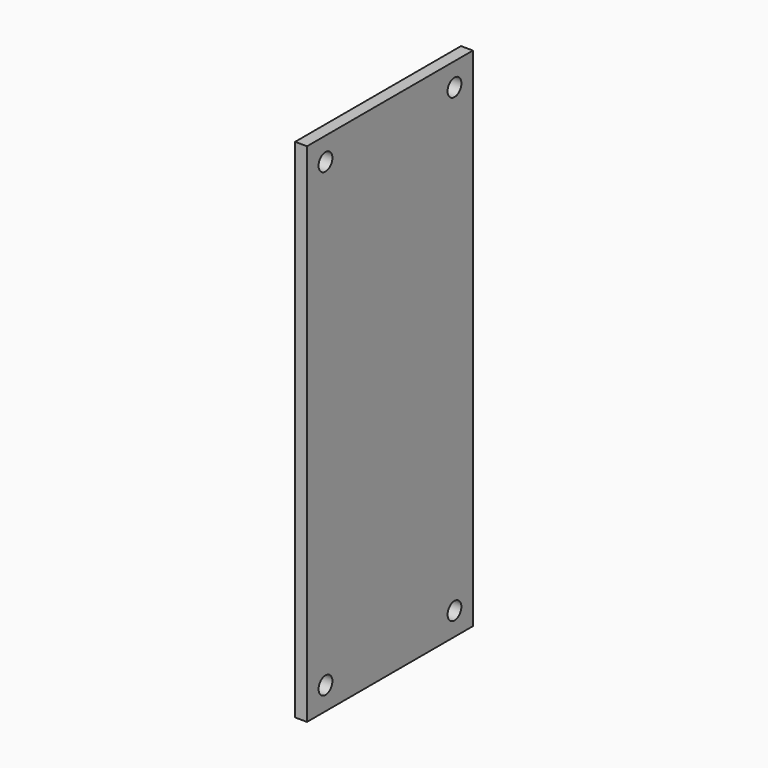
from build123d import *

# Parameters (mm, degrees)
F0_W     = 3.302
F0_H     = 57.15
F1_DEPTH = 69.85
F2_R     = 2.38125
F3_DEPTH = 3.302


with BuildPart() as f1:
    # F0 (on Top) → F1 (new body, symmetric)
    with BuildSketch(Plane.XY):
        Rectangle(F0_W, F0_H)
    extrude(amount=F1_DEPTH, both=True)

    # F2 (on face) → F3 (cut, through all)
    with BuildSketch(Plane(origin=(-1.651, 0, 0), x_dir=(0, -1, 0), z_dir=(-1, 0, 0))):
        with Locations((-22.225, 63.5)):
            Circle(F2_R)
        with Locations((22.225, 63.5)):
            Circle(F2_R)
        with Locations((-22.225, -63.5)):
            Circle(F2_R)
        with Locations((22.225, -63.5)):
            Circle(F2_R)
    extrude(amount=-F3_DEPTH, mode=Mode.SUBTRACT)


solid = f1.part
